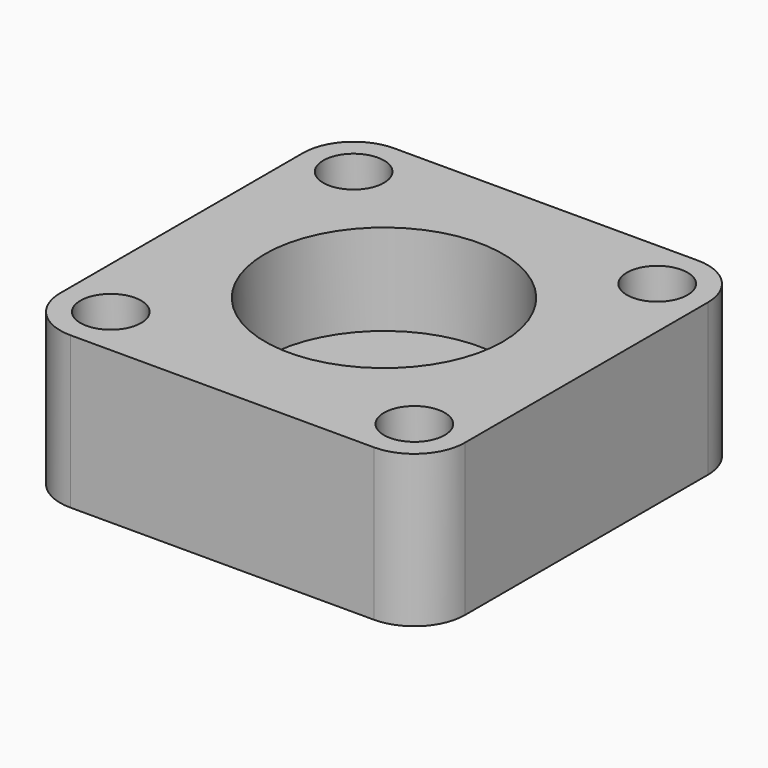
from build123d import *

# Parameters (mm, degrees)
F0_W           = 80
F0_H           = 80
F1_DEPTH       = 30
F2_R           = 10
F4_D           = 22
F4_CBORE_D     = 47
F4_CBORE_DEPTH = 18
F6_D           = 8
F6_CBORE_D     = 12
F6_CBORE_DEPTH = 10


with BuildPart() as f1:
    # F0 (on Top) → F1 (new body)
    with BuildSketch(Plane.XY):
        Rectangle(F0_W, F0_H)
    extrude(amount=F1_DEPTH)

    # F2
    f2_edges = [f1.edges().sort_by_distance(p)[0] for p in [
        (-40, 40, 15),
        (-40, -40, 15),
        (40, -40, 15),
        (40, 40, 15),
    ]]
    fillet(f2_edges, radius=F2_R)

    # F4 (through all)
    with Locations(Plane.XY.offset(30)):
        with Locations((0, 0)):
            CounterBoreHole(F4_D / 2, F4_CBORE_D / 2, F4_CBORE_DEPTH)

    # F6 (through all)
    with Locations(Plane.XY.offset(30)):
        with Locations((-30, 30), (30, 30), (30, -30), (-30, -30)):
            CounterBoreHole(F6_D / 2, F6_CBORE_D / 2, F6_CBORE_DEPTH)


solid = f1.part
